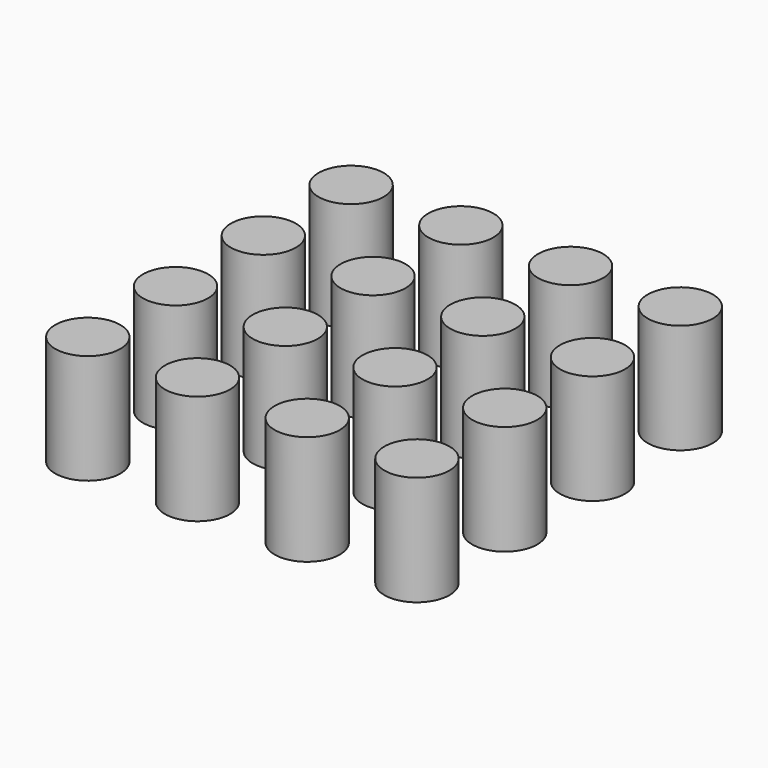
from build123d import *

# Parameters (mm, degrees)
F0_R     = 7.539586
F1_DEPTH = 25.4


with BuildPart() as f1:
    # F0 (on Top) → F1 (new body)
    with BuildSketch(Plane.XY):
        with Locations((21.513178, 50.974723)):
            Circle(F0_R)
        with Locations((21.513178, 25.574723)):
            Circle(F0_R)
        with Locations((21.513178, 0.174723)):
            Circle(F0_R)
        with Locations((21.513178, -25.225277)):
            Circle(F0_R)
        with Locations((-3.886822, -25.225277)):
            Circle(F0_R)
        with Locations((-3.886822, 0.174723)):
            Circle(F0_R)
        with Locations((-3.886822, 25.574723)):
            Circle(F0_R)
        with Locations((-3.886822, 50.974723)):
            Circle(F0_R)
        with Locations((-29.286822, 50.974723)):
            Circle(F0_R)
        with Locations((-29.286822, 25.574723)):
            Circle(F0_R)
        with Locations((-29.286822, 0.174723)):
            Circle(F0_R)
        with Locations((-29.286822, -25.225277)):
            Circle(F0_R)
        with Locations((-54.686822, 0.174723)):
            Circle(F0_R)
        with Locations((-54.686822, 25.574723)):
            Circle(F0_R)
        with Locations((-54.686822, 50.974723)):
            Circle(F0_R)
        with Locations((-54.686822, -25.225277)):
            Circle(F0_R)
    extrude(amount=F1_DEPTH)


solid = f1.part
